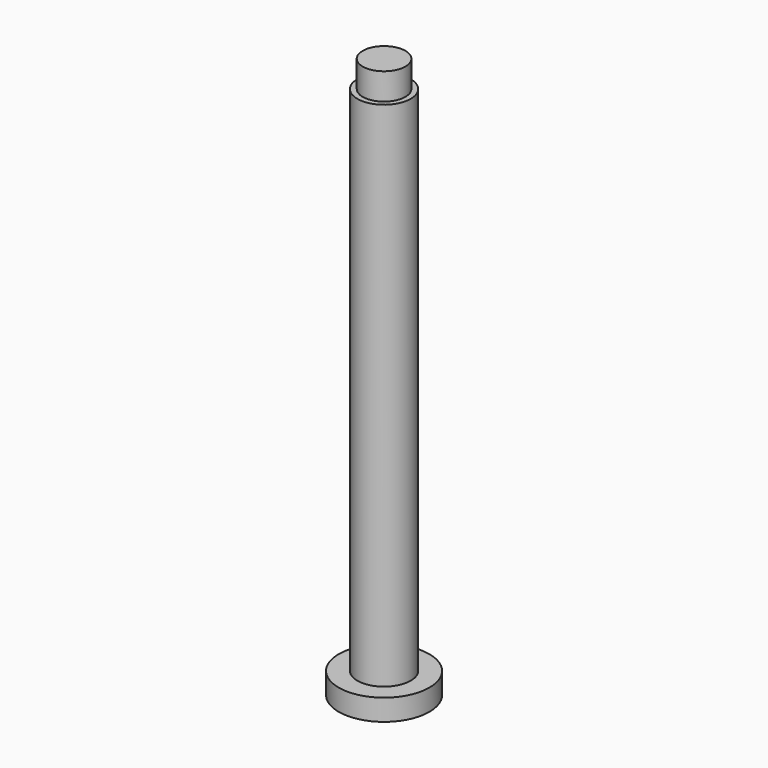
from build123d import *

# Parameters (mm, degrees)
F0_R     = 8.5
F1_DEPTH = 4
F2_R     = 5
F3_DEPTH = 100
F4_W     = 4
F4_H     = 5


with BuildPart() as f1:
    # F0 (on Top) → F1 (new body)
    with BuildSketch(Plane.XY):
        Circle(F0_R)
    extrude(amount=F1_DEPTH)

    # F2 (on Top) → F3 (join)
    with BuildSketch(Plane.XY):
        Circle(F2_R)
    extrude(amount=F3_DEPTH)

    # F4 (on Right) → F5 (revolve)
    with BuildSketch(Plane.YZ):
        with Locations((2, 102.5)):
            Rectangle(F4_W, F4_H)
    revolve(axis=Axis((0, 0, 102.5), (0, 0, -1)))


solid = f1.part
